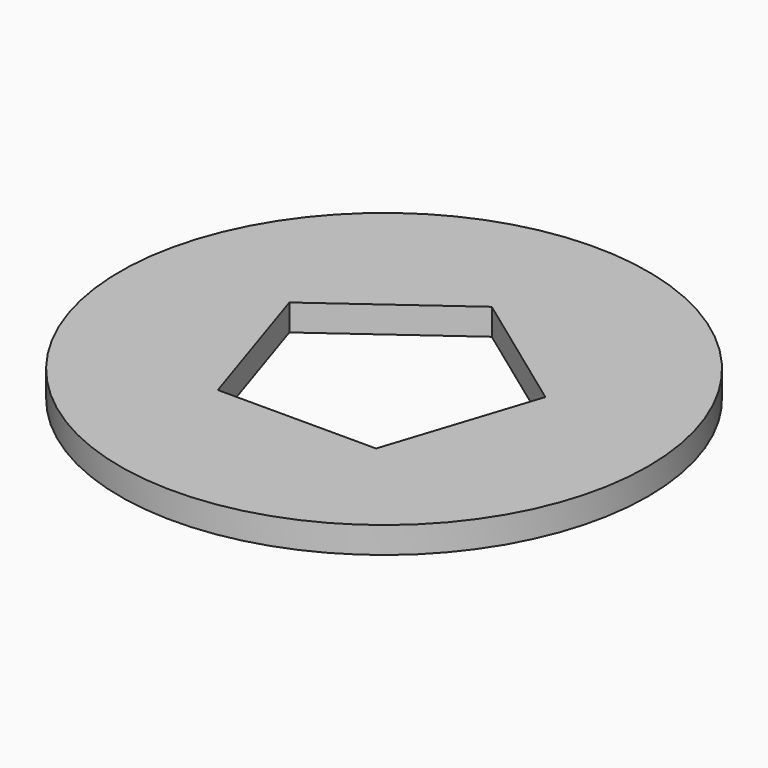
from build123d import *

# Parameters (mm, degrees)
F0_R     = 10
F1_DEPTH = 1


with BuildPart() as f1:
    # F0 (on Top) → F1 (new body)
    with BuildSketch(Plane.XY):
        Circle(F0_R)
        Polygon((0, 5.1), (4.850388, 1.575987), (2.997705, -4.125987), (-2.997705, -4.125987), (-4.850388, 1.575987), align=None, mode=Mode.SUBTRACT)
    extrude(amount=F1_DEPTH)


solid = f1.part
